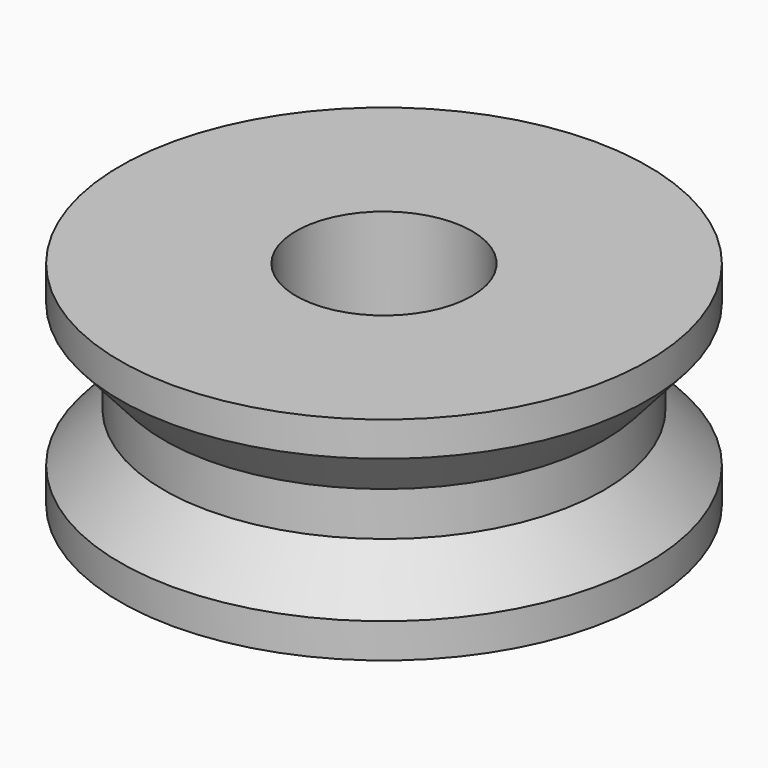
from build123d import *

# Parameters (mm, degrees)
F2_R     = 12.7
F3_DEPTH = 30.63151


with BuildPart() as f1:
    # F0 (on Right) → F1 (revolve)
    with BuildSketch(Plane.YZ):
        Polygon((38.1, -10.32069), (31.75, -3.175), (31.75, 3.175), (38.1, 10.32069), (38.1, 15.315255), (0, 15.315255), (0, -15.315255), (38.1, -15.315255), align=None)
    revolve(axis=Axis((0, 0, 0), (0, 0, -1)))

    # F2 (on face) → F3 (cut, through all)
    with BuildSketch(Plane.XY.offset(15.315255)):
        Circle(F2_R)
    extrude(amount=-F3_DEPTH, mode=Mode.SUBTRACT)


solid = f1.part
